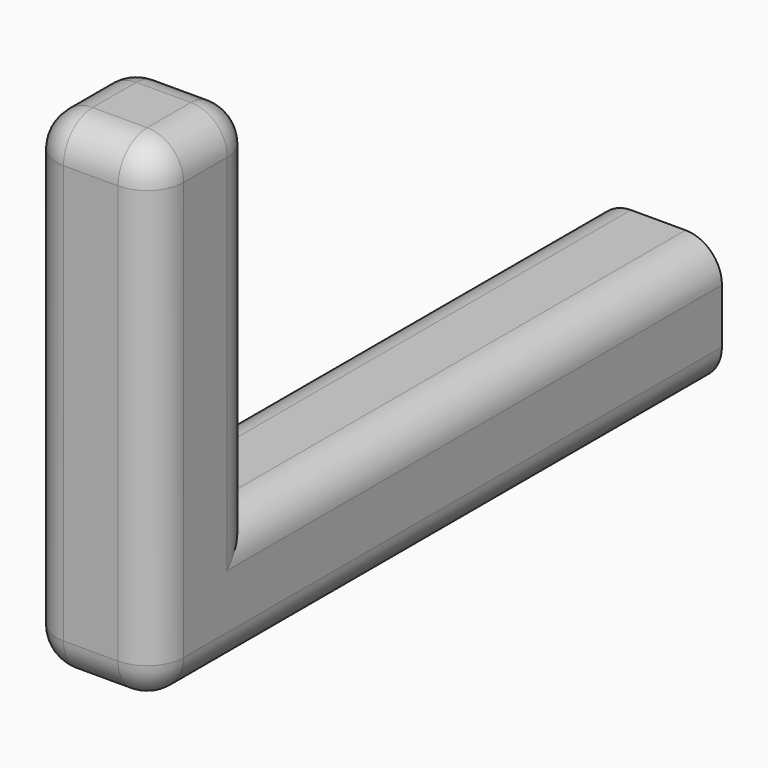
from build123d import *

# Parameters (mm, degrees)
F0_W     = 8.89
F0_H     = 8.89
F1_DEPTH = 40.64
F2_W     = 8.89
F2_H     = 34.29
F3_DEPTH = 8.89
F4_R     = 2.54


with BuildPart() as f1:
    # F0 (on Front) → F1 (new body)
    with BuildSketch(Plane.XZ):
        with Locations((0.729244, 0.33937)):
            Rectangle(F0_W, F0_H)
    extrude(amount=F1_DEPTH)

    # F2 (on face) → F3 (join)
    with BuildSketch(Plane.XZ.offset(40.64)):
        with Locations((0.729244, 13.03937)):
            Rectangle(F2_W, F2_H)
    extrude(amount=F3_DEPTH)

    # F4
    f4_edges = [f1.edges().sort_by_distance(p)[0] for p in [
        (5.174244, -40.64, 17.48437),
        (0.729244, -40.64, 30.18437),
        (-3.715756, -40.64, 17.48437),
        (-3.715756, -45.085, 30.18437),
        (-3.715756, -49.53, 13.03937),
        (-3.715756, -20.32, 4.78437),
        (-3.715756, -24.765, -4.10563),
        (5.174244, -20.32, 4.78437),
        (5.174244, -49.53, 13.03937),
        (5.174244, -24.765, -4.10563),
        (0.729244, -49.53, -4.10563),
        (5.174244, -45.085, 30.18437),
        (0.729244, -49.53, 30.18437),
    ]]
    fillet(f4_edges, radius=F4_R)


solid = f1.part
